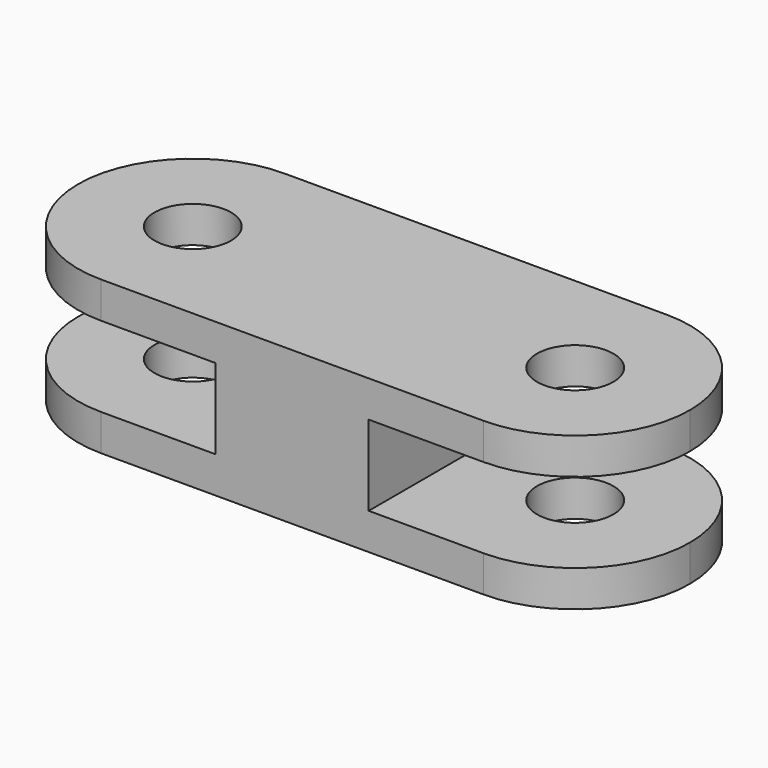
from build123d import *

# Parameters (mm, degrees)
F1_DEPTH = 20
F2_R     = 5
F3_DEPTH = 25
F4_W     = 30
F4_H     = 10.5
F5_DEPTH = 30


with BuildPart() as f1:
    # F0 (on Top) → F1 (new body)
    with BuildSketch(Plane.XY):
        with BuildLine():
            ThreePointArc((40, 0), (35.606602, 10.606602), (25, 15))
            Line((25, 15), (-25, 15))
            ThreePointArc((-25, 15), (-35.606602, 10.606602), (-40, 0))
            ThreePointArc((-40, 0), (-35.606602, -10.606602), (-25, -15))
            Line((-25, -15), (25, -15))
            ThreePointArc((25, -15), (35.606602, -10.606602), (40, 0))
        make_face()
    extrude(amount=F1_DEPTH)

    # F2 (on face) → F3 (cut)
    with BuildSketch(Plane.XY.offset(20)):
        with Locations((25, 0)):
            Circle(F2_R)
        with Locations((-25, 0)):
            Circle(F2_R)
    extrude(amount=-F3_DEPTH, mode=Mode.SUBTRACT)

    # F4 (on face) → F5 (cut)
    with BuildSketch(Plane.XZ.offset(15)):
        with Locations((25, 10)):
            Rectangle(F4_W, F4_H)
        with Locations((-25, 10)):
            Rectangle(F4_W, F4_H)
    extrude(amount=-F5_DEPTH, mode=Mode.SUBTRACT)


solid = f1.part
